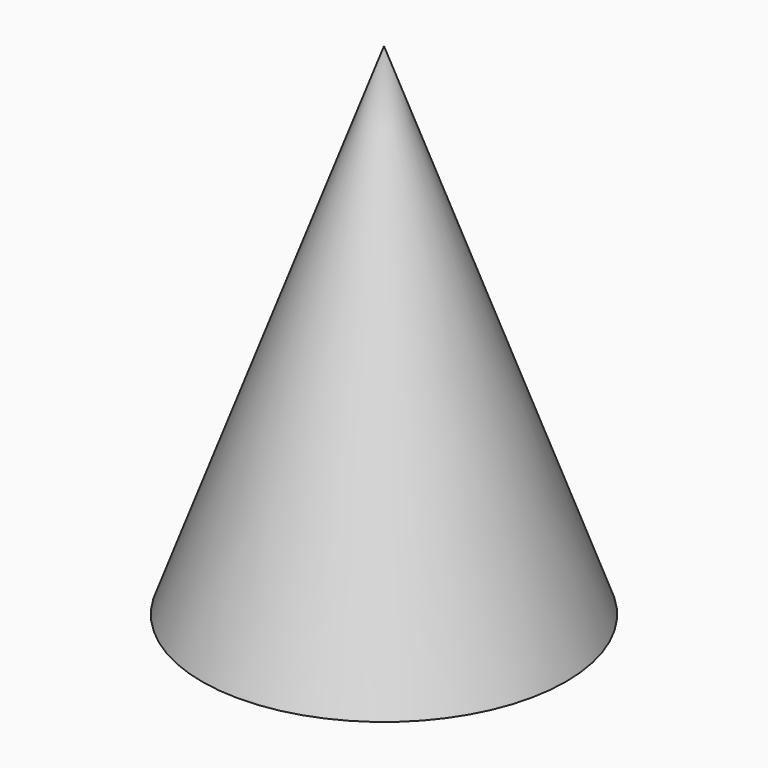
from build123d import *


with BuildPart() as f1:
    # F0 (on Front) → F1 (revolve)
    with BuildSketch(Plane.XZ):
        Polygon((0, 55.828741), (0, 39.16425), (0, 0), (20.32, 0), align=None)
    revolve(axis=Axis((0, 0, -3.746145), (0, 0, -1)))

    # F2 (on Front) → F3 (revolve, cut)
    with BuildSketch(Plane.XZ):
        Polygon((0, 34.892963), (0, 24.014971), (0, 0), (12.7, 0), align=None)
    revolve(axis=Axis((0, 0, 0.962477), (0, 0, -1)), mode=Mode.SUBTRACT)


solid = f1.part
